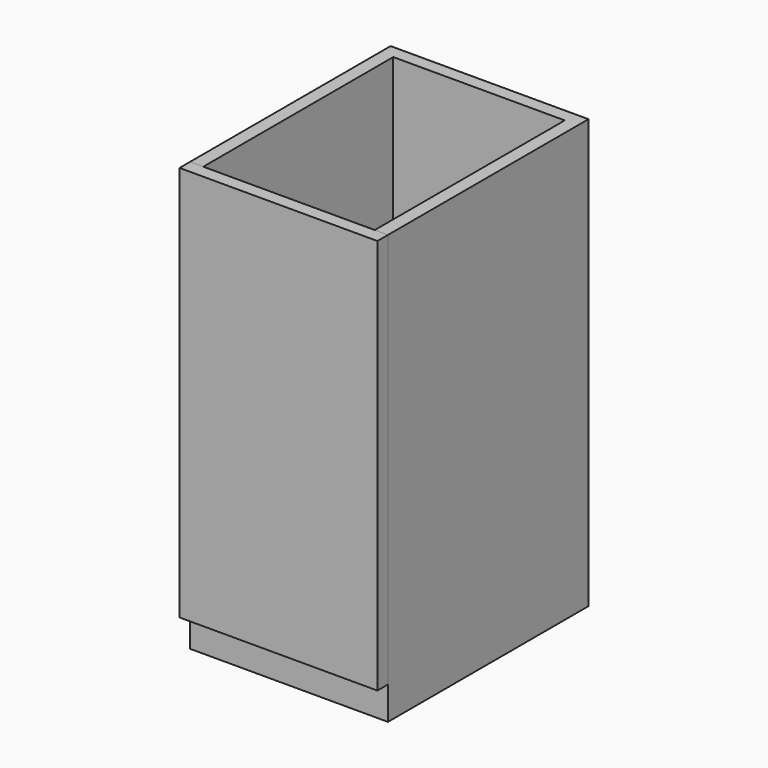
from build123d import *

# Parameters (mm, degrees)
F2_W     = 300
F2_H     = 380
F3_DEPTH = 650
F4_W     = 300
F4_H     = 600
F5_DEPTH = 20
F6_W     = 260
F6_H     = 360
F7_DEPTH = 600


with BuildPart() as f3:
    # F2 (on Top) → F3 (new body)
    with BuildSketch(Plane.XY):
        with Locations((150, 190)):
            Rectangle(F2_W, F2_H)
    extrude(amount=F3_DEPTH)

    # F6 (on face) → F7 (cut, through all)
    with BuildSketch(Plane.XY.offset(650)):
        with Locations((150, 180)):
            Rectangle(F6_W, F6_H)
    extrude(amount=-F7_DEPTH, mode=Mode.SUBTRACT)


with BuildPart() as f5:
    # F4 (on face) → F5 (new body)
    with BuildSketch(Plane.XZ):
        with Locations((150, 350)):
            Rectangle(F4_W, F4_H)
    extrude(amount=F5_DEPTH)


solid = Compound([f3.part, f5.part])
